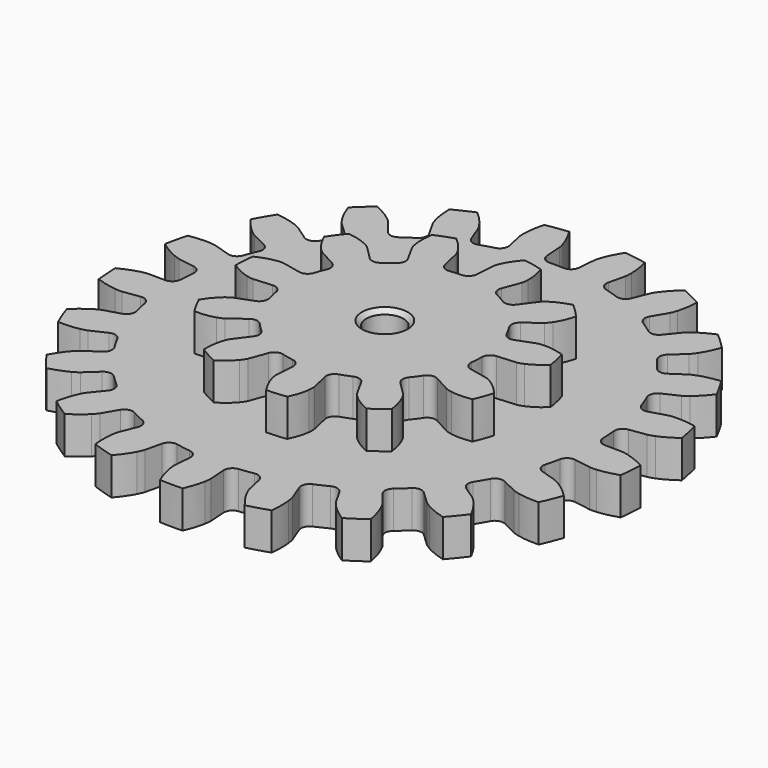
from build123d import *

# Parameters (mm, degrees)
PAD002_DEPTH            = 8.5
PAD003_DEPTH            = 8.5
SKETCH002_R             = 4.25
POCKET001_DEPTH         = 17.001
CHAMFER033_SIZE         = 1
CHAMFER038_SIZE         = 1
BODY001_PLACEMENT_ANGLE = 12.4


with BuildPart() as part:
    # InvoluteGear002 → Pad002 (new body)
    with BuildSketch(Plane.XY):
        with BuildLine():
            Line((50.344844, -3.863665), (54.193892, -4.15688))
            add(Edge.make_bspline(
                [(54.193892, -4.15688), (54.368449, -4.161699), (54.895611, -4.159104), (55.775874, -4.008666)],
                knots=[0, 0, 0, 0, 1, 1, 1, 1], degree=3))
            add(Edge.make_bspline(
                [(55.775874, -4.008666), (56.832961, -3.826227), (58.372015, -3.43166), (60.322261, -2.585605)],
                knots=[0, 0, 0, 0, 1, 1, 1, 1], degree=3))
            ThreePointArc((60.322261, -2.585605), (60.377652, 0), (60.322261, 2.585605))
            add(Edge.make_bspline(
                [(60.322261, 2.585605), (58.372015, 3.43166), (56.832961, 3.826227), (55.775874, 4.008666)],
                knots=[0, 0, 0, 0, 1, 1, 1, 1], degree=3))
            add(Edge.make_bspline(
                [(55.775874, 4.008666), (54.895611, 4.159104), (54.368449, 4.161699), (54.193892, 4.15688)],
                knots=[0, 0, 0, 0, 1, 1, 1, 1], degree=3))
            Line((54.193892, 4.15688), (50.344844, 3.863665))
            ThreePointArc((50.344844, 3.863665), (48.942603, 4.306943), (48.238745, 5.598205))
            ThreePointArc((48.238745, 5.598205), (48.020097, 7.237865), (47.745733, 8.869127))
            ThreePointArc((47.745733, 8.869127), (48.037714, 10.310488), (49.246999, 11.14739))
            Line((49.246999, 11.14739), (53.011471, 12.001728))
            add(Edge.make_bspline(
                [(53.011471, 12.001728), (53.179694, 12.048575), (53.682671, 12.206439), (54.479484, 12.609656)],
                knots=[0, 0, 0, 0, 1, 1, 1, 1], degree=3))
            add(Edge.make_bspline(
                [(54.479484, 12.609656), (55.435832, 13.095571), (56.790209, 13.926252), (58.404433, 15.309564)],
                knots=[0, 0, 0, 0, 1, 1, 1, 1], degree=3))
            ThreePointArc((58.404433, 15.309564), (57.695242, 17.796625), (56.880191, 20.251033))
            add(Edge.make_bspline(
                [(56.880191, 20.251033), (54.76721, 20.484654), (53.180232, 20.408048), (52.116334, 20.270799)],
                knots=[0, 0, 0, 0, 1, 1, 1, 1], degree=3))
            add(Edge.make_bspline(
                [(52.116334, 20.270799), (51.230836, 20.155092), (50.726329, 20.002188), (50.560947, 19.946132)],
                knots=[0, 0, 0, 0, 1, 1, 1, 1], degree=3))
            Line((50.560947, 19.946132), (46.969329, 18.531417))
            ThreePointArc((46.969329, 18.531417), (45.498727, 18.541683), (44.445533, 19.568112))
            ThreePointArc((44.445533, 19.568112), (43.753301, 21.070479), (43.010303, 22.548398))
            ThreePointArc((43.010303, 22.548398), (42.864464, 24.011787), (43.773343, 25.16795))
            Line((43.773343, 25.16795), (47.118749, 27.093931))
            add(Edge.make_bspline(
                [(47.118749, 27.093931), (47.265689, 27.188281), (47.699789, 27.487386), (48.342352, 28.107554)],
                knots=[0, 0, 0, 0, 1, 1, 1, 1], degree=3))
            add(Edge.make_bspline(
                [(48.342352, 28.107554), (49.112986, 28.85377), (50.162345, 30.046756), (51.297114, 31.844412)],
                knots=[0, 0, 0, 0, 1, 1, 1, 1], degree=3))
            ThreePointArc((51.297114, 31.844412), (49.886357, 34.011942), (48.384067, 36.117067))
            add(Edge.make_bspline(
                [(48.384067, 36.117067), (46.296099, 35.717497), (44.802206, 35.176524), (43.826028, 34.731784)],
                knots=[0, 0, 0, 0, 1, 1, 1, 1], degree=3))
            add(Edge.make_bspline(
                [(43.826028, 34.731784), (43.013976, 34.360212), (42.576952, 34.065395), (42.435441, 33.963082)],
                knots=[0, 0, 0, 0, 1, 1, 1, 1], degree=3))
            Line((42.435441, 33.963082), (39.420382, 31.552571))
            ThreePointArc((39.420382, 31.552571), (38.012089, 31.128913), (36.70314, 31.799307))
            ThreePointArc((36.70314, 31.799307), (35.598832, 33.030889), (34.453219, 34.224145))
            ThreePointArc((34.453219, 34.224145), (33.882517, 35.579533), (34.410232, 36.952228))
            Line((34.410232, 36.952228), (37.039319, 39.778718))
            add(Edge.make_bspline(
                [(37.039319, 39.778718), (37.151921, 39.912188), (37.478572, 40.325958), (37.90979, 41.107972)],
                knots=[0, 0, 0, 0, 1, 1, 1, 1], degree=3))
            add(Edge.make_bspline(
                [(37.90979, 41.107972), (38.426236, 42.048185), (39.077336, 43.497474), (39.631822, 45.549744)],
                knots=[0, 0, 0, 0, 1, 1, 1, 1], degree=3))
            ThreePointArc((39.631822, 45.549744), (37.64485, 47.205149), (35.588807, 48.773941))
            add(Edge.make_bspline(
                [(35.588807, 48.773941), (33.711376, 47.776684), (32.443307, 46.819412), (31.641588, 46.106697)],
                knots=[0, 0, 0, 0, 1, 1, 1, 1], degree=3))
            add(Edge.make_bspline(
                [(31.641588, 46.106697), (30.975135, 45.512276), (30.644426, 45.101742), (30.539359, 44.962263)],
                knots=[0, 0, 0, 0, 1, 1, 1, 1], degree=3))
            Line((30.539359, 44.962263), (28.368762, 41.77014))
            ThreePointArc((28.368762, 41.77014), (27.14791, 40.950203), (25.699512, 41.204993))
            ThreePointArc((25.699512, 41.204993), (24.28125, 42.056359), (22.834815, 42.858927))
            ThreePointArc((22.834815, 42.858927), (21.889961, 43.985881), (21.989622, 45.453138))
            Line((21.989622, 45.453138), (23.668783, 48.928992))
            add(Edge.make_bspline(
                [(23.668783, 48.928992), (23.737041, 49.089723), (23.92722, 49.581392), (24.108777, 50.455767)],
                knots=[0, 0, 0, 0, 1, 1, 1, 1], degree=3))
            add(Edge.make_bspline(
                [(24.108777, 50.455767), (24.325146, 51.506434), (24.520134, 53.08325), (24.445069, 55.207781)],
                knots=[0, 0, 0, 0, 1, 1, 1, 1], degree=3))
            ThreePointArc((24.445069, 55.207781), (22.058433, 56.203971), (19.631324, 57.097037))
            add(Edge.make_bspline(
                [(19.631324, 57.097037), (18.131249, 55.590702), (17.201678, 54.302189), (16.645653, 53.384827)],
                knots=[0, 0, 0, 0, 1, 1, 1, 1], degree=3))
            add(Edge.make_bspline(
                [(16.645653, 53.384827), (16.184018, 52.620375), (15.989009, 52.130602), (15.929721, 51.96635)],
                knots=[0, 0, 0, 0, 1, 1, 1, 1], degree=3))
            Line((15.929721, 51.96635), (14.796452, 48.276249))
            ThreePointArc((14.796452, 48.276249), (13.871521, 47.132887), (12.41237, 46.949435))
            ThreePointArc((12.41237, 46.949435), (10.806173, 47.344937), (9.187438, 47.685505))
            ThreePointArc((9.187438, 47.685505), (7.952385, 48.483891), (7.615137, 49.915338))
            Line((7.615137, 49.915338), (8.195171, 53.731711))
            add(Edge.make_bspline(
                [(8.195171, 53.731711), (8.213021, 53.90542), (8.249829, 54.431302), (8.165593, 55.320346)],
                knots=[0, 0, 0, 0, 1, 1, 1, 1], degree=3))
            add(Edge.make_bspline(
                [(8.165593, 55.320346), (8.06266, 56.38811), (7.784211, 57.952346), (7.086264, 59.960365)],
                knots=[0, 0, 0, 0, 1, 1, 1, 1], degree=3))
            ThreePointArc((7.086264, 59.960365), (4.512028, 60.208823), (1.929513, 60.34681))
            add(Edge.make_bspline(
                [(1.929513, 60.34681), (0.940082, 58.465243), (0.431605, 56.959979), (0.17068, 55.919482)],
                knots=[0, 0, 0, 0, 1, 1, 1, 1], degree=3))
            add(Edge.make_bspline(
                [(0.17068, 55.919482), (-0.04512, 55.052922), (-0.087103, 54.527428), (-0.095342, 54.352999)],
                knots=[0, 0, 0, 0, 1, 1, 1, 1], degree=3))
            Line((-0.095342, 54.352999), (-0.090587, 50.492802))
            ThreePointArc((-0.090587, 50.492802), (-0.637414, 49.127608), (-1.977666, 48.522214))
            ThreePointArc((-1.977666, 48.522214), (-3.62908, 48.426709), (-5.276284, 48.275017))
            ThreePointArc((-5.276284, 48.275017), (-6.691795, 48.673895), (-7.435986, 49.94234))
            Line((-7.435986, 49.94234), (-8.006617, 53.760131))
            add(Edge.make_bspline(
                [(-8.006617, 53.760131), (-8.040762, 53.931384), (-8.160596, 54.444751), (-8.50314, 55.269469)],
                knots=[0, 0, 0, 0, 1, 1, 1, 1], degree=3))
            add(Edge.make_bspline(
                [(-8.50314, 55.269469), (-8.916228, 56.259456), (-9.643374, 57.672122), (-10.902187, 59.385207)],
                knots=[0, 0, 0, 0, 1, 1, 1, 1], degree=3))
            ThreePointArc((-10.902187, 59.385207), (-13.435291, 58.863858), (-15.943745, 58.234504))
            add(Edge.make_bspline(
                [(-15.943745, 58.234504), (-16.334616, 56.14489), (-16.376819, 54.556625), (-16.31946, 53.485445)],
                knots=[0, 0, 0, 0, 1, 1, 1, 1], degree=3))
            add(Edge.make_bspline(
                [(-16.31946, 53.485445), (-16.270249, 52.593776), (-16.155475, 52.079254), (-16.111934, 51.910145)],
                knots=[0, 0, 0, 0, 1, 1, 1, 1], degree=3))
            Line((-16.111934, 51.910145), (-14.969577, 48.222847))
            ThreePointArc((-14.969577, 48.222847), (-15.089713, 46.757125), (-16.191977, 45.783581))
            ThreePointArc((-16.191977, 45.783581), (-17.741873, 45.205556), (-19.271184, 44.575081))
            ThreePointArc((-19.271184, 44.575081), (-20.74138, 44.539009), (-21.82639, 45.531747))
            Line((-21.82639, 45.531747), (-23.496982, 49.011727))
            add(Edge.make_bspline(
                [(-23.496982, 49.011727), (-23.580088, 49.165308), (-23.845916, 49.620546), (-24.416331, 50.307657)],
                knots=[0, 0, 0, 0, 1, 1, 1, 1], degree=3))
            add(Edge.make_bspline(
                [(-24.416331, 50.307657), (-25.102871, 51.131902), (-26.214102, 52.267477), (-27.92193, 53.533413)],
                knots=[0, 0, 0, 0, 1, 1, 1, 1], degree=3))
            ThreePointArc((-27.92193, 53.533413), (-30.188826, 52.28858), (-32.40033, 50.947808))
            add(Edge.make_bspline(
                [(-32.40033, 50.947808), (-32.157912, 48.835817), (-31.73009, 47.305675), (-31.359543, 46.298991)],
                knots=[0, 0, 0, 0, 1, 1, 1, 1], degree=3))
            add(Edge.make_bspline(
                [(-31.359543, 46.298991), (-31.049695, 45.461442), (-30.788362, 45.003609), (-30.69691, 44.854847)],
                knots=[0, 0, 0, 0, 1, 1, 1, 1], degree=3))
            Line((-30.69691, 44.854847), (-28.518455, 41.668081))
            ThreePointArc((-28.518455, 41.668081), (-28.201223, 40.232066), (-28.96756, 38.976876))
            ThreePointArc((-28.96756, 38.976876), (-30.278224, 37.967691), (-31.553756, 36.914454))
            ThreePointArc((-31.553756, 36.914454), (-32.948002, 36.446637), (-34.277422, 37.075458))
            Line((-34.277422, 37.075458), (-36.899537, 39.908417))
            add(Edge.make_bspline(
                [(-36.899537, 39.908417), (-37.024219, 40.030678), (-37.412421, 40.387337), (-38.160024, 40.875789)],
                knots=[0, 0, 0, 0, 1, 1, 1, 1], degree=3))
            add(Edge.make_bspline(
                [(-38.160024, 40.875789), (-39.059014, 41.461053), (-40.455593, 42.218638), (-42.460688, 42.92494)],
                knots=[0, 0, 0, 0, 1, 1, 1, 1], degree=3))
            ThreePointArc((-42.460688, 42.92494), (-44.25995, 41.067233), (-45.978005, 39.134174))
            add(Edge.make_bspline(
                [(-45.978005, 39.134174), (-45.123836, 37.187468), (-44.264004, 35.851408), (-43.613194, 34.998669)],
                knots=[0, 0, 0, 0, 1, 1, 1, 1], degree=3))
            add(Edge.make_bspline(
                [(-43.613194, 34.998669), (-43.07024, 34.289659), (-42.685568, 33.929196), (-42.55433, 33.813999)],
                knots=[0, 0, 0, 0, 1, 1, 1, 1], degree=3))
            Line((-42.55433, 33.813999), (-39.533342, 31.410923))
            ThreePointArc((-39.533342, 31.410923), (-38.806932, 30.132212), (-39.169249, 28.706904))
            ThreePointArc((-39.169249, 28.706904), (-40.12422, 27.35623), (-41.032637, 25.973816))
            ThreePointArc((-41.032637, 25.973816), (-42.227049, 25.115821), (-43.682756, 25.324852))
            Line((-43.682756, 25.324852), (-47.023407, 27.259068))
            add(Edge.make_bspline(
                [(-47.023407, 27.259068), (-47.178587, 27.339147), (-47.654669, 27.565536), (-48.513031, 27.811928)],
                knots=[0, 0, 0, 0, 1, 1, 1, 1], degree=3))
            add(Edge.make_bspline(
                [(-48.513031, 27.811928), (-49.544591, 28.106209), (-51.102426, 28.418487), (-53.226627, 28.502398)],
                knots=[0, 0, 0, 0, 1, 1, 1, 1], degree=3))
            ThreePointArc((-53.226627, 28.502398), (-54.398384, 26.196881), (-55.470331, 23.843298))
            add(Edge.make_bspline(
                [(-55.470331, 23.843298), (-54.080309, 22.234849), (-52.864866, 21.211587), (-51.991621, 20.588562)],
                knots=[0, 0, 0, 0, 1, 1, 1, 1], degree=3))
            add(Edge.make_bspline(
                [(-51.991621, 20.588562), (-51.263804, 20.07109), (-50.789974, 19.840025), (-50.630612, 19.768629)],
                knots=[0, 0, 0, 0, 1, 1, 1, 1], degree=3))
            Line((-50.630612, 19.768629), (-47.035519, 18.362767))
            ThreePointArc((-47.035519, 18.362767), (-45.964474, 17.354978), (-45.890578, 15.886198))
            ThreePointArc((-45.890578, 15.886198), (-46.405004, 14.314048), (-46.865589, 12.72529))
            ThreePointArc((-46.865589, 12.72529), (-47.754038, 11.553354), (-49.206684, 11.324021))
            Line((-49.206684, 11.324021), (-52.96904, 12.187632))
            add(Edge.make_bspline(
                [(-52.96904, 12.187632), (-53.14093, 12.218413), (-53.66259, 12.294417), (-54.555443, 12.276855)],
                knots=[0, 0, 0, 0, 1, 1, 1, 1], degree=3))
            add(Edge.make_bspline(
                [(-54.555443, 12.276855), (-55.627915, 12.254004), (-57.208585, 12.093229), (-59.263147, 11.547293)],
                knots=[0, 0, 0, 0, 1, 1, 1, 1], degree=3))
            ThreePointArc((-59.263147, 11.547293), (-59.703283, 8.998822), (-60.033876, 6.43384))
            add(Edge.make_bspline(
                [(-60.033876, 6.43384), (-58.23151, 5.306566), (-56.768454, 4.687022), (-55.750364, 4.349071)],
                knots=[0, 0, 0, 0, 1, 1, 1, 1], degree=3))
            add(Edge.make_bspline(
                [(-55.750364, 4.349071), (-54.902355, 4.069116), (-54.381468, 3.987981), (-54.208142, 3.966729)],
                knots=[0, 0, 0, 0, 1, 1, 1, 1], degree=3))
            Line((-54.208142, 3.966729), (-50.358383, 3.682998))
            ThreePointArc((-50.358383, 3.682998), (-49.037871, 3.035679), (-48.534327, 1.653934))
            ThreePointArc((-48.534327, 1.653934), (-48.5625, 0), (-48.534327, -1.653934))
            ThreePointArc((-48.534327, -1.653934), (-49.037871, -3.035679), (-50.358383, -3.682998))
            Line((-50.358383, -3.682998), (-54.208142, -3.966729))
            add(Edge.make_bspline(
                [(-54.208142, -3.966729), (-54.381468, -3.987981), (-54.902355, -4.069116), (-55.750364, -4.349071)],
                knots=[0, 0, 0, 0, 1, 1, 1, 1], degree=3))
            add(Edge.make_bspline(
                [(-55.750364, -4.349071), (-56.768454, -4.687022), (-58.23151, -5.306566), (-60.033876, -6.43384)],
                knots=[0, 0, 0, 0, 1, 1, 1, 1], degree=3))
            ThreePointArc((-60.033876, -6.43384), (-59.703283, -8.998822), (-59.263147, -11.547293))
            add(Edge.make_bspline(
                [(-59.263147, -11.547293), (-57.208585, -12.093229), (-55.627915, -12.254004), (-54.555443, -12.276855)],
                knots=[0, 0, 0, 0, 1, 1, 1, 1], degree=3))
            add(Edge.make_bspline(
                [(-54.555443, -12.276855), (-53.66259, -12.294417), (-53.14093, -12.218413), (-52.96904, -12.187632)],
                knots=[0, 0, 0, 0, 1, 1, 1, 1], degree=3))
            Line((-52.96904, -12.187632), (-49.206684, -11.324021))
            ThreePointArc((-49.206684, -11.324021), (-47.754038, -11.553354), (-46.865589, -12.72529))
            ThreePointArc((-46.865589, -12.72529), (-46.405004, -14.314048), (-45.890578, -15.886198))
            ThreePointArc((-45.890578, -15.886198), (-45.964474, -17.354978), (-47.035519, -18.362767))
            Line((-47.035519, -18.362767), (-50.630612, -19.768629))
            add(Edge.make_bspline(
                [(-50.630612, -19.768629), (-50.789974, -19.840025), (-51.263804, -20.07109), (-51.991621, -20.588562)],
                knots=[0, 0, 0, 0, 1, 1, 1, 1], degree=3))
            add(Edge.make_bspline(
                [(-51.991621, -20.588562), (-52.864866, -21.211587), (-54.080309, -22.234849), (-55.470331, -23.843298)],
                knots=[0, 0, 0, 0, 1, 1, 1, 1], degree=3))
            ThreePointArc((-55.470331, -23.843298), (-54.398384, -26.196881), (-53.226627, -28.502398))
            add(Edge.make_bspline(
                [(-53.226627, -28.502398), (-51.102426, -28.418487), (-49.544591, -28.106209), (-48.513031, -27.811928)],
                knots=[0, 0, 0, 0, 1, 1, 1, 1], degree=3))
            add(Edge.make_bspline(
                [(-48.513031, -27.811928), (-47.654669, -27.565536), (-47.178587, -27.339147), (-47.023407, -27.259068)],
                knots=[0, 0, 0, 0, 1, 1, 1, 1], degree=3))
            Line((-47.023407, -27.259068), (-43.682756, -25.324852))
            ThreePointArc((-43.682756, -25.324852), (-42.227049, -25.115821), (-41.032637, -25.973816))
            ThreePointArc((-41.032637, -25.973816), (-40.12422, -27.35623), (-39.169249, -28.706904))
            ThreePointArc((-39.169249, -28.706904), (-38.806932, -30.132212), (-39.533342, -31.410923))
            Line((-39.533342, -31.410923), (-42.55433, -33.813999))
            add(Edge.make_bspline(
                [(-42.55433, -33.813999), (-42.685568, -33.929196), (-43.07024, -34.289659), (-43.613194, -34.998669)],
                knots=[0, 0, 0, 0, 1, 1, 1, 1], degree=3))
            add(Edge.make_bspline(
                [(-43.613194, -34.998669), (-44.264004, -35.851408), (-45.123836, -37.187468), (-45.978005, -39.134174)],
                knots=[0, 0, 0, 0, 1, 1, 1, 1], degree=3))
            ThreePointArc((-45.978005, -39.134174), (-44.25995, -41.067233), (-42.460688, -42.92494))
            add(Edge.make_bspline(
                [(-42.460688, -42.92494), (-40.455593, -42.218638), (-39.059014, -41.461053), (-38.160024, -40.875789)],
                knots=[0, 0, 0, 0, 1, 1, 1, 1], degree=3))
            add(Edge.make_bspline(
                [(-38.160024, -40.875789), (-37.412421, -40.387337), (-37.024219, -40.030678), (-36.899537, -39.908417)],
                knots=[0, 0, 0, 0, 1, 1, 1, 1], degree=3))
            Line((-36.899537, -39.908417), (-34.277422, -37.075458))
            ThreePointArc((-34.277422, -37.075458), (-32.948002, -36.446637), (-31.553756, -36.914454))
            ThreePointArc((-31.553756, -36.914454), (-30.278224, -37.967691), (-28.96756, -38.976876))
            ThreePointArc((-28.96756, -38.976876), (-28.201223, -40.232066), (-28.518455, -41.668081))
            Line((-28.518455, -41.668081), (-30.69691, -44.854847))
            add(Edge.make_bspline(
                [(-30.69691, -44.854847), (-30.788362, -45.003609), (-31.049695, -45.461442), (-31.359543, -46.298991)],
                knots=[0, 0, 0, 0, 1, 1, 1, 1], degree=3))
            add(Edge.make_bspline(
                [(-31.359543, -46.298991), (-31.73009, -47.305675), (-32.157912, -48.835817), (-32.40033, -50.947808)],
                knots=[0, 0, 0, 0, 1, 1, 1, 1], degree=3))
            ThreePointArc((-32.40033, -50.947808), (-30.188826, -52.28858), (-27.92193, -53.533413))
            add(Edge.make_bspline(
                [(-27.92193, -53.533413), (-26.214102, -52.267477), (-25.102871, -51.131902), (-24.416331, -50.307657)],
                knots=[0, 0, 0, 0, 1, 1, 1, 1], degree=3))
            add(Edge.make_bspline(
                [(-24.416331, -50.307657), (-23.845916, -49.620546), (-23.580088, -49.165308), (-23.496982, -49.011727)],
                knots=[0, 0, 0, 0, 1, 1, 1, 1], degree=3))
            Line((-23.496982, -49.011727), (-21.82639, -45.531747))
            ThreePointArc((-21.82639, -45.531747), (-20.74138, -44.539009), (-19.271184, -44.575081))
            ThreePointArc((-19.271184, -44.575081), (-17.741873, -45.205556), (-16.191977, -45.783581))
            ThreePointArc((-16.191977, -45.783581), (-15.089713, -46.757125), (-14.969577, -48.222847))
            Line((-14.969577, -48.222847), (-16.111934, -51.910145))
            add(Edge.make_bspline(
                [(-16.111934, -51.910145), (-16.155475, -52.079254), (-16.270249, -52.593776), (-16.31946, -53.485445)],
                knots=[0, 0, 0, 0, 1, 1, 1, 1], degree=3))
            add(Edge.make_bspline(
                [(-16.31946, -53.485445), (-16.376819, -54.556625), (-16.334616, -56.14489), (-15.943745, -58.234504)],
                knots=[0, 0, 0, 0, 1, 1, 1, 1], degree=3))
            ThreePointArc((-15.943745, -58.234504), (-13.435291, -58.863858), (-10.902187, -59.385207))
            add(Edge.make_bspline(
                [(-10.902187, -59.385207), (-9.643374, -57.672122), (-8.916228, -56.259456), (-8.50314, -55.269469)],
                knots=[0, 0, 0, 0, 1, 1, 1, 1], degree=3))
            add(Edge.make_bspline(
                [(-8.50314, -55.269469), (-8.160596, -54.444751), (-8.040762, -53.931384), (-8.006617, -53.760131)],
                knots=[0, 0, 0, 0, 1, 1, 1, 1], degree=3))
            Line((-8.006617, -53.760131), (-7.435986, -49.94234))
            ThreePointArc((-7.435986, -49.94234), (-6.691795, -48.673895), (-5.276284, -48.275017))
            ThreePointArc((-5.276284, -48.275017), (-3.62908, -48.426709), (-1.977666, -48.522214))
            ThreePointArc((-1.977666, -48.522214), (-0.637414, -49.127608), (-0.090587, -50.492802))
            Line((-0.090587, -50.492802), (-0.095342, -54.352999))
            add(Edge.make_bspline(
                [(-0.095342, -54.352999), (-0.087103, -54.527428), (-0.04512, -55.052922), (0.17068, -55.919482)],
                knots=[0, 0, 0, 0, 1, 1, 1, 1], degree=3))
            add(Edge.make_bspline(
                [(0.17068, -55.919482), (0.431605, -56.959979), (0.940082, -58.465243), (1.929513, -60.34681)],
                knots=[0, 0, 0, 0, 1, 1, 1, 1], degree=3))
            ThreePointArc((1.929513, -60.34681), (4.512028, -60.208823), (7.086264, -59.960365))
            add(Edge.make_bspline(
                [(7.086264, -59.960365), (7.784211, -57.952346), (8.06266, -56.38811), (8.165593, -55.320346)],
                knots=[0, 0, 0, 0, 1, 1, 1, 1], degree=3))
            add(Edge.make_bspline(
                [(8.165593, -55.320346), (8.249829, -54.431302), (8.213021, -53.90542), (8.195171, -53.731711)],
                knots=[0, 0, 0, 0, 1, 1, 1, 1], degree=3))
            Line((8.195171, -53.731711), (7.615137, -49.915338))
            ThreePointArc((7.615137, -49.915338), (7.952385, -48.483891), (9.187438, -47.685505))
            ThreePointArc((9.187438, -47.685505), (10.806173, -47.344937), (12.41237, -46.949435))
            ThreePointArc((12.41237, -46.949435), (13.871521, -47.132887), (14.796452, -48.276249))
            Line((14.796452, -48.276249), (15.929721, -51.96635))
            add(Edge.make_bspline(
                [(15.929721, -51.96635), (15.989009, -52.130602), (16.184018, -52.620375), (16.645653, -53.384827)],
                knots=[0, 0, 0, 0, 1, 1, 1, 1], degree=3))
            add(Edge.make_bspline(
                [(16.645653, -53.384827), (17.201678, -54.302189), (18.131249, -55.590702), (19.631324, -57.097037)],
                knots=[0, 0, 0, 0, 1, 1, 1, 1], degree=3))
            ThreePointArc((19.631324, -57.097037), (22.058433, -56.203971), (24.445069, -55.207781))
            add(Edge.make_bspline(
                [(24.445069, -55.207781), (24.520134, -53.08325), (24.325146, -51.506434), (24.108777, -50.455767)],
                knots=[0, 0, 0, 0, 1, 1, 1, 1], degree=3))
            add(Edge.make_bspline(
                [(24.108777, -50.455767), (23.92722, -49.581392), (23.737041, -49.089723), (23.668783, -48.928992)],
                knots=[0, 0, 0, 0, 1, 1, 1, 1], degree=3))
            Line((23.668783, -48.928992), (21.989622, -45.453138))
            ThreePointArc((21.989622, -45.453138), (21.889961, -43.985881), (22.834815, -42.858927))
            ThreePointArc((22.834815, -42.858927), (24.28125, -42.056359), (25.699512, -41.204993))
            ThreePointArc((25.699512, -41.204993), (27.14791, -40.950203), (28.368762, -41.77014))
            Line((28.368762, -41.77014), (30.539359, -44.962263))
            add(Edge.make_bspline(
                [(30.539359, -44.962263), (30.644426, -45.101742), (30.975135, -45.512276), (31.641588, -46.106697)],
                knots=[0, 0, 0, 0, 1, 1, 1, 1], degree=3))
            add(Edge.make_bspline(
                [(31.641588, -46.106697), (32.443307, -46.819412), (33.711376, -47.776684), (35.588807, -48.773941)],
                knots=[0, 0, 0, 0, 1, 1, 1, 1], degree=3))
            ThreePointArc((35.588807, -48.773941), (37.64485, -47.205149), (39.631822, -45.549744))
            add(Edge.make_bspline(
                [(39.631822, -45.549744), (39.077336, -43.497474), (38.426236, -42.048185), (37.90979, -41.107972)],
                knots=[0, 0, 0, 0, 1, 1, 1, 1], degree=3))
            add(Edge.make_bspline(
                [(37.90979, -41.107972), (37.478572, -40.325958), (37.151921, -39.912188), (37.039319, -39.778718)],
                knots=[0, 0, 0, 0, 1, 1, 1, 1], degree=3))
            Line((37.039319, -39.778718), (34.410232, -36.952228))
            ThreePointArc((34.410232, -36.952228), (33.882517, -35.579533), (34.453219, -34.224145))
            ThreePointArc((34.453219, -34.224145), (35.598832, -33.030889), (36.70314, -31.799307))
            ThreePointArc((36.70314, -31.799307), (38.012089, -31.128913), (39.420382, -31.552571))
            Line((39.420382, -31.552571), (42.435441, -33.963082))
            add(Edge.make_bspline(
                [(42.435441, -33.963082), (42.576952, -34.065395), (43.013976, -34.360212), (43.826028, -34.731784)],
                knots=[0, 0, 0, 0, 1, 1, 1, 1], degree=3))
            add(Edge.make_bspline(
                [(43.826028, -34.731784), (44.802206, -35.176524), (46.296099, -35.717497), (48.384067, -36.117067)],
                knots=[0, 0, 0, 0, 1, 1, 1, 1], degree=3))
            ThreePointArc((48.384067, -36.117067), (49.886357, -34.011942), (51.297114, -31.844412))
            add(Edge.make_bspline(
                [(51.297114, -31.844412), (50.162345, -30.046756), (49.112986, -28.85377), (48.342352, -28.107554)],
                knots=[0, 0, 0, 0, 1, 1, 1, 1], degree=3))
            add(Edge.make_bspline(
                [(48.342352, -28.107554), (47.699789, -27.487386), (47.265689, -27.188281), (47.118749, -27.093931)],
                knots=[0, 0, 0, 0, 1, 1, 1, 1], degree=3))
            Line((47.118749, -27.093931), (43.773343, -25.16795))
            ThreePointArc((43.773343, -25.16795), (42.864464, -24.011787), (43.010303, -22.548398))
            ThreePointArc((43.010303, -22.548398), (43.753301, -21.070479), (44.445533, -19.568112))
            ThreePointArc((44.445533, -19.568112), (45.498727, -18.541683), (46.969329, -18.531417))
            Line((46.969329, -18.531417), (50.560947, -19.946132))
            add(Edge.make_bspline(
                [(50.560947, -19.946132), (50.726329, -20.002188), (51.230836, -20.155092), (52.116334, -20.270799)],
                knots=[0, 0, 0, 0, 1, 1, 1, 1], degree=3))
            add(Edge.make_bspline(
                [(52.116334, -20.270799), (53.180232, -20.408048), (54.76721, -20.484654), (56.880191, -20.251033)],
                knots=[0, 0, 0, 0, 1, 1, 1, 1], degree=3))
            ThreePointArc((56.880191, -20.251033), (57.695242, -17.796625), (58.404433, -15.309564))
            add(Edge.make_bspline(
                [(58.404433, -15.309564), (56.790209, -13.926252), (55.435832, -13.095571), (54.479484, -12.609656)],
                knots=[0, 0, 0, 0, 1, 1, 1, 1], degree=3))
            add(Edge.make_bspline(
                [(54.479484, -12.609656), (53.682671, -12.206439), (53.179694, -12.048575), (53.011471, -12.001728)],
                knots=[0, 0, 0, 0, 1, 1, 1, 1], degree=3))
            Line((53.011471, -12.001728), (49.246999, -11.14739))
            ThreePointArc((49.246999, -11.14739), (48.037714, -10.310488), (47.745733, -8.869127))
            ThreePointArc((47.745733, -8.869127), (48.020097, -7.237865), (48.238745, -5.598205))
            ThreePointArc((48.238745, -5.598205), (48.942603, -4.306943), (50.344844, -3.863665))
        make_face()
    extrude(amount=-PAD002_DEPTH)

    # InvoluteGear003 → Pad003 (join)
    with BuildSketch(Plane.XY):
        with BuildLine():
            Line((23.948752, -3.487176), (28.204189, -4.103803))
            add(Edge.make_bspline(
                [(28.204189, -4.103803), (28.373654, -4.116949), (28.883845, -4.133908), (29.7431, -3.969268)],
                knots=[0, 0, 0, 0, 1, 1, 1, 1], degree=3))
            add(Edge.make_bspline(
                [(29.7431, -3.969268), (30.769016, -3.768325), (32.243801, -3.309166), (34.053356, -2.280452)],
                knots=[0, 0, 0, 0, 1, 1, 1, 1], degree=3))
            ThreePointArc((34.053356, -2.280452), (34.129638, 0), (34.053356, 2.280452))
            add(Edge.make_bspline(
                [(34.053356, 2.280452), (32.243801, 3.309166), (30.769016, 3.768325), (29.7431, 3.969268)],
                knots=[0, 0, 0, 0, 1, 1, 1, 1], degree=3))
            add(Edge.make_bspline(
                [(29.7431, 3.969268), (28.883845, 4.133908), (28.373654, 4.116949), (28.204189, 4.103803)],
                knots=[0, 0, 0, 0, 1, 1, 1, 1], degree=3))
            Line((28.204189, 4.103803), (23.948752, 3.487176))
            ThreePointArc((23.948752, 3.487176), (22.555524, 3.809066), (21.747613, 4.988888))
            ThreePointArc((21.747613, 4.988888), (21.408687, 6.286158), (20.992452, 7.560728))
            ThreePointArc((20.992452, 7.560728), (21.03425, 8.990046), (22.032282, 10.014074))
            Line((22.032282, 10.014074), (25.945557, 11.795997))
            add(Edge.make_bspline(
                [(25.945557, 11.795997), (26.095228, 11.876558), (26.533597, 12.138121), (27.167436, 12.741173)],
                knots=[0, 0, 0, 0, 1, 1, 1, 1], degree=3))
            add(Edge.make_bspline(
                [(27.167436, 12.741173), (27.921853, 13.464869), (28.914282, 14.648467), (29.880411, 16.492196)],
                knots=[0, 0, 0, 0, 1, 1, 1, 1], degree=3))
            ThreePointArc((29.880411, 16.492196), (28.711679, 18.451875), (27.4146, 20.329072))
            add(Edge.make_bspline(
                [(27.4146, 20.329072), (25.336141, 20.216163), (23.847233, 19.805102), (22.87554, 19.419494)],
                knots=[0, 0, 0, 0, 1, 1, 1, 1], degree=3))
            add(Edge.make_bspline(
                [(22.87554, 19.419494), (22.063677, 19.093451), (21.643646, 18.803353), (21.50819, 18.700674)],
                knots=[0, 0, 0, 0, 1, 1, 1, 1], degree=3))
            Line((21.50819, 18.700674), (18.261663, 15.881272))
            ThreePointArc((18.261663, 15.881272), (16.915577, 15.398827), (15.59806, 15.954567))
            ThreePointArc((15.59806, 15.954567), (14.61158, 16.862662), (13.572337, 17.709865))
            ThreePointArc((13.572337, 17.709865), (12.834751, 18.934883), (13.120718, 20.335926))
            Line((13.120718, 20.335926), (15.449394, 23.950651))
            add(Edge.make_bspline(
                [(15.449394, 23.950651), (15.53175, 24.099342), (15.759118, 24.556382), (15.966303, 25.406382)],
                knots=[0, 0, 0, 0, 1, 1, 1, 1], degree=3))
            add(Edge.make_bspline(
                [(15.966303, 25.406382), (16.2097, 26.423063), (16.404682, 27.955316), (16.220647, 30.028688)],
                knots=[0, 0, 0, 0, 1, 1, 1, 1], degree=3))
            ThreePointArc((16.220647, 30.028688), (14.177964, 31.045411), (12.071903, 31.923356))
            add(Edge.make_bspline(
                [(12.071903, 31.923356), (10.384436, 30.70467), (9.354122, 29.5539), (8.745157, 28.704169)],
                knots=[0, 0, 0, 0, 1, 1, 1, 1], degree=3))
            add(Edge.make_bspline(
                [(8.745157, 28.704169), (8.238448, 27.990958), (8.041934, 27.519826), (7.983493, 27.360214)],
                knots=[0, 0, 0, 0, 1, 1, 1, 1], degree=3))
            Line((7.983493, 27.360214), (6.776625, 23.233176))
            ThreePointArc((6.776625, 23.233176), (5.905055, 22.099569), (4.496233, 21.854783))
            ThreePointArc((4.496233, 21.854783), (3.1754, 22.085391), (1.8431, 22.236246))
            ThreePointArc((1.8431, 22.236246), (0.56031, 22.868027), (0.043418, 24.201265))
            Line((0.043418, 24.201265), (0.048158, 28.501143))
            add(Edge.make_bspline(
                [(0.048158, 28.501143), (0.037052, 28.670754), (-0.018769, 29.178166), (-0.304018, 30.005244)],
                knots=[0, 0, 0, 0, 1, 1, 1, 1], degree=3))
            add(Edge.make_bspline(
                [(-0.304018, 30.005244), (-0.648919, 30.99212), (-1.313288, 32.386549), (-2.589058, 34.031284)],
                knots=[0, 0, 0, 0, 1, 1, 1, 1], degree=3))
            ThreePointArc((-2.589058, 34.031284), (-4.857154, 33.782248), (-7.103538, 33.382199))
            add(Edge.make_bspline(
                [(-7.103538, 33.382199), (-7.864255, 31.444662), (-8.108856, 29.919543), (-8.161751, 28.875472)],
                knots=[0, 0, 0, 0, 1, 1, 1, 1], degree=3))
            add(Edge.make_bspline(
                [(-8.161751, 28.875472), (-8.202431, 28.001533), (-8.113036, 27.498949), (-8.075907, 27.333079)],
                knots=[0, 0, 0, 0, 1, 1, 1, 1], degree=3))
            Line((-8.075907, 27.333079), (-6.859944, 23.208712))
            ThreePointArc((-6.859944, 23.208712), (-6.980281, 21.783854), (-8.033116, 20.816261))
            ThreePointArc((-8.033116, 20.816261), (-9.268947, 20.296164), (-10.471308, 19.702776))
            ThreePointArc((-10.471308, 19.702776), (-11.892027, 19.540735), (-13.047666, 20.382874))
            Line((-13.047666, 20.382874), (-15.368368, 24.002723))
            add(Edge.make_bspline(
                [(-15.368368, 24.002723), (-15.46941, 24.139405), (-15.790697, 24.536088), (-16.477816, 25.077653)],
                knots=[0, 0, 0, 0, 1, 1, 1, 1], degree=3))
            add(Edge.make_bspline(
                [(-16.477816, 25.077653), (-17.301511, 25.721398), (-18.614298, 26.535282), (-20.576755, 27.229187)],
                knots=[0, 0, 0, 0, 1, 1, 1, 1], degree=3))
            ThreePointArc((-20.576755, 27.229187), (-22.35016, 25.793459), (-24.023656, 24.242431))
            add(Edge.make_bspline(
                [(-24.023656, 24.242431), (-23.6161, 22.201196), (-22.99733, 20.785943), (-22.477361, 19.879017)],
                knots=[0, 0, 0, 0, 1, 1, 1, 1], degree=3))
            add(Edge.make_bspline(
                [(-22.477361, 19.879017), (-22.039096, 19.12182), (-21.692174, 18.747349), (-21.571263, 18.627884)],
                knots=[0, 0, 0, 0, 1, 1, 1, 1], degree=3))
            Line((-21.571263, 18.627884), (-18.318529, 15.815645))
            ThreePointArc((-18.318529, 15.815645), (-17.649427, 14.55192), (-18.012007, 13.168722))
            ThreePointArc((-18.012007, 13.168722), (-18.770469, 12.063048), (-19.461149, 10.913813))
            ThreePointArc((-19.461149, 10.913813), (-20.568728, 10.009397), (-21.996209, 10.093064))
            Line((-21.996209, 10.093064), (-25.905546, 11.883608))
            add(Edge.make_bspline(
                [(-25.905546, 11.883608), (-26.064444, 11.943966), (-26.54919, 12.103976), (-27.420023, 12.188084)],
                knots=[0, 0, 0, 0, 1, 1, 1, 1], degree=3))
            add(Edge.make_bspline(
                [(-27.420023, 12.188084), (-28.460995, 12.284314), (-30.005401, 12.25925), (-32.031478, 11.782016)],
                knots=[0, 0, 0, 0, 1, 1, 1, 1], degree=3))
            ThreePointArc((-32.031478, 11.782016), (-32.747148, 9.61543), (-33.316433, 7.405861))
            add(Edge.make_bspline(
                [(-33.316433, 7.405861), (-31.87, 5.909007), (-30.584314, 5.052952), (-29.656567, 4.571115)],
                knots=[0, 0, 0, 0, 1, 1, 1, 1], degree=3))
            add(Edge.make_bspline(
                [(-29.656567, 4.571115), (-28.878503, 4.171064), (-28.384201, 4.043599), (-28.217896, 4.008468)],
                knots=[0, 0, 0, 0, 1, 1, 1, 1], degree=3))
            Line((-28.217896, 4.008468), (-23.96111, 3.401223))
            ThreePointArc((-23.96111, 3.401223), (-22.715004, 2.699853), (-22.272214, 1.340208))
            ThreePointArc((-22.272214, 1.340208), (-22.3125, 0), (-22.272214, -1.340208))
            ThreePointArc((-22.272214, -1.340208), (-22.715004, -2.699853), (-23.96111, -3.401223))
            Line((-23.96111, -3.401223), (-28.217896, -4.008468))
            add(Edge.make_bspline(
                [(-28.217896, -4.008468), (-28.384201, -4.043599), (-28.878503, -4.171064), (-29.656567, -4.571115)],
                knots=[0, 0, 0, 0, 1, 1, 1, 1], degree=3))
            add(Edge.make_bspline(
                [(-29.656567, -4.571115), (-30.584314, -5.052952), (-31.87, -5.909007), (-33.316433, -7.405861)],
                knots=[0, 0, 0, 0, 1, 1, 1, 1], degree=3))
            ThreePointArc((-33.316433, -7.405861), (-32.747148, -9.61543), (-32.031478, -11.782016))
            add(Edge.make_bspline(
                [(-32.031478, -11.782016), (-30.005401, -12.25925), (-28.460995, -12.284314), (-27.420023, -12.188084)],
                knots=[0, 0, 0, 0, 1, 1, 1, 1], degree=3))
            add(Edge.make_bspline(
                [(-27.420023, -12.188084), (-26.54919, -12.103976), (-26.064444, -11.943966), (-25.905546, -11.883608)],
                knots=[0, 0, 0, 0, 1, 1, 1, 1], degree=3))
            Line((-25.905546, -11.883608), (-21.996209, -10.093064))
            ThreePointArc((-21.996209, -10.093064), (-20.568728, -10.009397), (-19.461149, -10.913813))
            ThreePointArc((-19.461149, -10.913813), (-18.770469, -12.063048), (-18.012007, -13.168722))
            ThreePointArc((-18.012007, -13.168722), (-17.649427, -14.55192), (-18.318529, -15.815645))
            Line((-18.318529, -15.815645), (-21.571263, -18.627884))
            add(Edge.make_bspline(
                [(-21.571263, -18.627884), (-21.692174, -18.747349), (-22.039096, -19.12182), (-22.477361, -19.879017)],
                knots=[0, 0, 0, 0, 1, 1, 1, 1], degree=3))
            add(Edge.make_bspline(
                [(-22.477361, -19.879017), (-22.99733, -20.785943), (-23.6161, -22.201196), (-24.023656, -24.242431)],
                knots=[0, 0, 0, 0, 1, 1, 1, 1], degree=3))
            ThreePointArc((-24.023656, -24.242431), (-22.35016, -25.793459), (-20.576755, -27.229187))
            add(Edge.make_bspline(
                [(-20.576755, -27.229187), (-18.614298, -26.535282), (-17.301511, -25.721398), (-16.477816, -25.077653)],
                knots=[0, 0, 0, 0, 1, 1, 1, 1], degree=3))
            add(Edge.make_bspline(
                [(-16.477816, -25.077653), (-15.790697, -24.536088), (-15.46941, -24.139405), (-15.368368, -24.002723)],
                knots=[0, 0, 0, 0, 1, 1, 1, 1], degree=3))
            Line((-15.368368, -24.002723), (-13.047666, -20.382874))
            ThreePointArc((-13.047666, -20.382874), (-11.892027, -19.540735), (-10.471308, -19.702776))
            ThreePointArc((-10.471308, -19.702776), (-9.268947, -20.296164), (-8.033116, -20.816261))
            ThreePointArc((-8.033116, -20.816261), (-6.980281, -21.783854), (-6.859944, -23.208712))
            Line((-6.859944, -23.208712), (-8.075907, -27.333079))
            add(Edge.make_bspline(
                [(-8.075907, -27.333079), (-8.113036, -27.498949), (-8.202431, -28.001533), (-8.161751, -28.875472)],
                knots=[0, 0, 0, 0, 1, 1, 1, 1], degree=3))
            add(Edge.make_bspline(
                [(-8.161751, -28.875472), (-8.108856, -29.919543), (-7.864255, -31.444662), (-7.103538, -33.382199)],
                knots=[0, 0, 0, 0, 1, 1, 1, 1], degree=3))
            ThreePointArc((-7.103538, -33.382199), (-4.857154, -33.782248), (-2.589058, -34.031284))
            add(Edge.make_bspline(
                [(-2.589058, -34.031284), (-1.313288, -32.386549), (-0.648919, -30.99212), (-0.304018, -30.005244)],
                knots=[0, 0, 0, 0, 1, 1, 1, 1], degree=3))
            add(Edge.make_bspline(
                [(-0.304018, -30.005244), (-0.018769, -29.178166), (0.037052, -28.670754), (0.048158, -28.501143)],
                knots=[0, 0, 0, 0, 1, 1, 1, 1], degree=3))
            Line((0.048158, -28.501143), (0.043418, -24.201265))
            ThreePointArc((0.043418, -24.201265), (0.56031, -22.868027), (1.8431, -22.236246))
            ThreePointArc((1.8431, -22.236246), (3.1754, -22.085391), (4.496233, -21.854783))
            ThreePointArc((4.496233, -21.854783), (5.905055, -22.099569), (6.776625, -23.233176))
            Line((6.776625, -23.233176), (7.983493, -27.360214))
            add(Edge.make_bspline(
                [(7.983493, -27.360214), (8.041934, -27.519826), (8.238448, -27.990958), (8.745157, -28.704169)],
                knots=[0, 0, 0, 0, 1, 1, 1, 1], degree=3))
            add(Edge.make_bspline(
                [(8.745157, -28.704169), (9.354122, -29.5539), (10.384436, -30.70467), (12.071903, -31.923356)],
                knots=[0, 0, 0, 0, 1, 1, 1, 1], degree=3))
            ThreePointArc((12.071903, -31.923356), (14.177964, -31.045411), (16.220647, -30.028688))
            add(Edge.make_bspline(
                [(16.220647, -30.028688), (16.404682, -27.955316), (16.2097, -26.423063), (15.966303, -25.406382)],
                knots=[0, 0, 0, 0, 1, 1, 1, 1], degree=3))
            add(Edge.make_bspline(
                [(15.966303, -25.406382), (15.759118, -24.556382), (15.53175, -24.099342), (15.449394, -23.950651)],
                knots=[0, 0, 0, 0, 1, 1, 1, 1], degree=3))
            Line((15.449394, -23.950651), (13.120718, -20.335926))
            ThreePointArc((13.120718, -20.335926), (12.834751, -18.934883), (13.572337, -17.709865))
            ThreePointArc((13.572337, -17.709865), (14.61158, -16.862662), (15.59806, -15.954567))
            ThreePointArc((15.59806, -15.954567), (16.915577, -15.398827), (18.261663, -15.881272))
            Line((18.261663, -15.881272), (21.50819, -18.700674))
            add(Edge.make_bspline(
                [(21.50819, -18.700674), (21.643646, -18.803353), (22.063677, -19.093451), (22.87554, -19.419494)],
                knots=[0, 0, 0, 0, 1, 1, 1, 1], degree=3))
            add(Edge.make_bspline(
                [(22.87554, -19.419494), (23.847233, -19.805102), (25.336141, -20.216163), (27.4146, -20.329072)],
                knots=[0, 0, 0, 0, 1, 1, 1, 1], degree=3))
            ThreePointArc((27.4146, -20.329072), (28.711679, -18.451875), (29.880411, -16.492196))
            add(Edge.make_bspline(
                [(29.880411, -16.492196), (28.914282, -14.648467), (27.921853, -13.464869), (27.167436, -12.741173)],
                knots=[0, 0, 0, 0, 1, 1, 1, 1], degree=3))
            add(Edge.make_bspline(
                [(27.167436, -12.741173), (26.533597, -12.138121), (26.095228, -11.876558), (25.945557, -11.795997)],
                knots=[0, 0, 0, 0, 1, 1, 1, 1], degree=3))
            Line((25.945557, -11.795997), (22.032282, -10.014074))
            ThreePointArc((22.032282, -10.014074), (21.03425, -8.990046), (20.992452, -7.560728))
            ThreePointArc((20.992452, -7.560728), (21.408687, -6.286158), (21.747613, -4.988888))
            ThreePointArc((21.747613, -4.988888), (22.555524, -3.809066), (23.948752, -3.487176))
        make_face()
    extrude(amount=PAD003_DEPTH)

    # Sketch002 (on Face5 of Pad003) → Pocket001 (cut, through all)
    with BuildSketch(Plane(origin=(0, 0, -8.5), x_dir=(1, 0, 0), z_dir=(0, 0, -1))):
        Circle(SKETCH002_R)
    extrude(amount=-POCKET001_DEPTH, mode=Mode.SUBTRACT)

    # Chamfer033
    chamfer033_edges = [part.edges().sort_by_distance(p)[0] for p in [
        (-4.25, 0, -8.5),
    ]]
    chamfer(chamfer033_edges, length=CHAMFER033_SIZE)

    # Chamfer038
    chamfer038_edges = [part.edges().sort_by_distance(p)[0] for p in [
        (-4.25, 0, 8.5),
    ]]
    chamfer(chamfer038_edges, length=CHAMFER038_SIZE)


with BuildPart() as part_1:
    # Body001 placement: moved
    add(part.part.moved(Location((-69, -36, 0))).rotate(Axis((-69, -36, 0), (0, 0, 1)), BODY001_PLACEMENT_ANGLE))


solid = part_1.part
